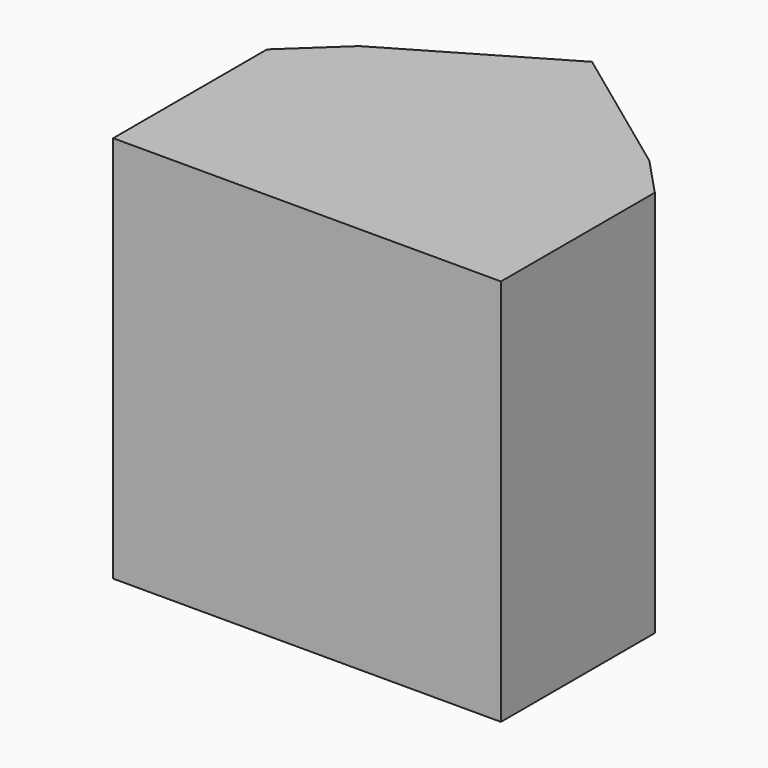
from build123d import *

# Parameters (mm, degrees)
F0_W          = 10.795
F0_H          = 131.347498
F1_DEPTH      = 127
F1_DEPTH_BACK = 127
F2_W          = 131.347498
F2_H          = 10.795
F3_DEPTH      = 254
F4_W          = 10.795
F4_H          = 131.347498
F5_DEPTH      = 254
F6_W          = 131.347498
F6_H          = 10.795
F7_DEPTH      = 254
F8_W          = 7.69969
F8_H          = 264.795
F9_DEPTH      = 254
F11_DEPTH     = 264.795


with BuildPart() as f1:
    # F0 (on Top) → F1 (new body, two sides)
    with BuildSketch(Plane.XY) as f1_sk:
        Rectangle(F0_W, F0_H)
    extrude(amount=F1_DEPTH)
    extrude(f1_sk.sketch, amount=-F1_DEPTH_BACK)

    # F2 (on face) → F3 (join)
    with BuildSketch(Plane.YZ.offset(5.3975)):
        with Locations((0, 121.6025)):
            Rectangle(F2_W, F2_H)
    extrude(amount=F3_DEPTH)

    # F4 (on face) → F5 (join)
    with BuildSketch(Plane(origin=(0, 0, 116.205), x_dir=(1, 0, 0), z_dir=(0, 0, -1))):
        with Locations((254, 0)):
            Rectangle(F4_W, F4_H)
    extrude(amount=F5_DEPTH)

    # F6 (on face) → F7 (join)
    with BuildSketch(Plane(origin=(248.6025, 0, 0), x_dir=(0, -1, 0), z_dir=(-1, 0, 0))):
        with Locations((0, -132.3975)):
            Rectangle(F6_W, F6_H)
    extrude(amount=F7_DEPTH)

    # F8 (on face) → F9 (join)
    with BuildSketch(Plane.YZ.offset(259.3975)):
        with Locations((-61.823904, -5.3975)):
            Rectangle(F8_W, F8_H)
    extrude(amount=-F9_DEPTH)

    # F10 (on face) → F11 (join)
    with BuildSketch(Plane(origin=(0, 0, -137.795), x_dir=(1, 0, 0), z_dir=(0, 0, -1))):
        Polygon((233.998537, -92.701845), (259.3975, -65.673749), (-5.3975, -65.673749), (30.545302, -99.291421), (138.861507, -162.71612), align=None)
    extrude(amount=-F11_DEPTH)


solid = f1.part
